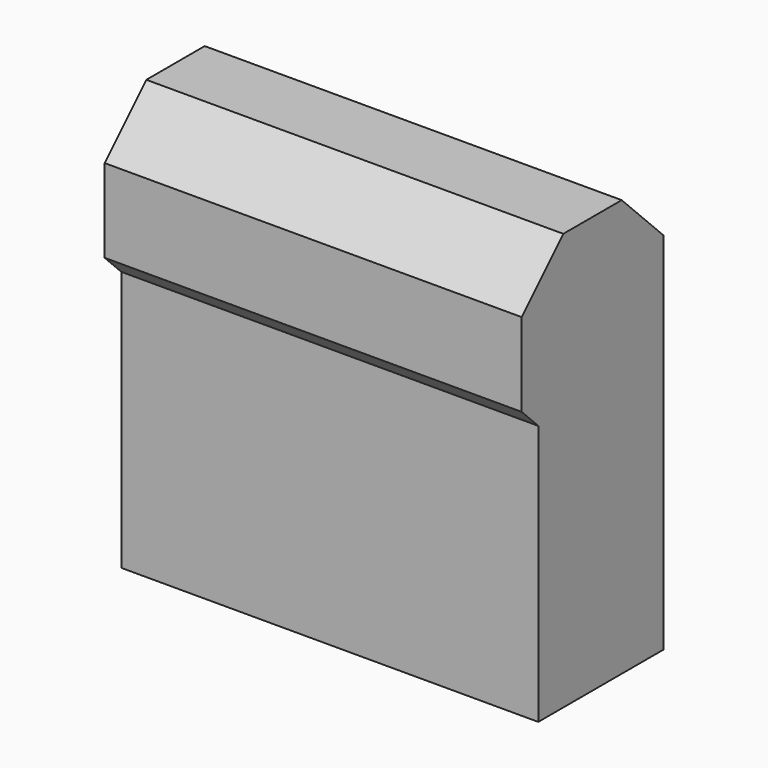
from build123d import *

# Parameters (mm, degrees)
BOX002_W           = 8
BOX002_H           = 3
BOX002_DEPTH       = 5
BOX012_W           = 8
BOX012_H           = 3.4
BOX012_DEPTH       = 3
CHAMFER009002_SIZE = 0.4
CHAMFER009012_SIZE = 1


with BuildPart() as cube002:
    # Box002 → Box002 (new body)
    with BuildSketch(Plane(origin=(-4, -8.2, 0), x_dir=(1, 0, 0), z_dir=(0, 0, 1))):
        with Locations((4, 1.5)):
            Rectangle(BOX002_W, BOX002_H)
    extrude(amount=BOX002_DEPTH)


with BuildPart() as fusion006:
    # Box012 → Box012 (new body)
    with BuildSketch(Plane(origin=(-4, -8.6, 5), x_dir=(1, 0, 0), z_dir=(0, 0, 1))):
        with Locations((4, 1.7)):
            Rectangle(BOX012_W, BOX012_H)
    extrude(amount=BOX012_DEPTH)

    # Chamfer009002
    chamfer009002_edges = [fusion006.edges().sort_by_distance(p)[0] for p in [
        (0, -8.6, 5),
    ]]
    chamfer(chamfer009002_edges, length=CHAMFER009002_SIZE)

    # Chamfer009012
    chamfer009012_edges = [fusion006.edges().sort_by_distance(p)[0] for p in [
        (0, -8.6, 8),
        (0, -5.2, 8),
    ]]
    chamfer(chamfer009012_edges, length=CHAMFER009012_SIZE)

    # Fusion006: union Cube002
    add(cube002.part)


solid = fusion006.part
